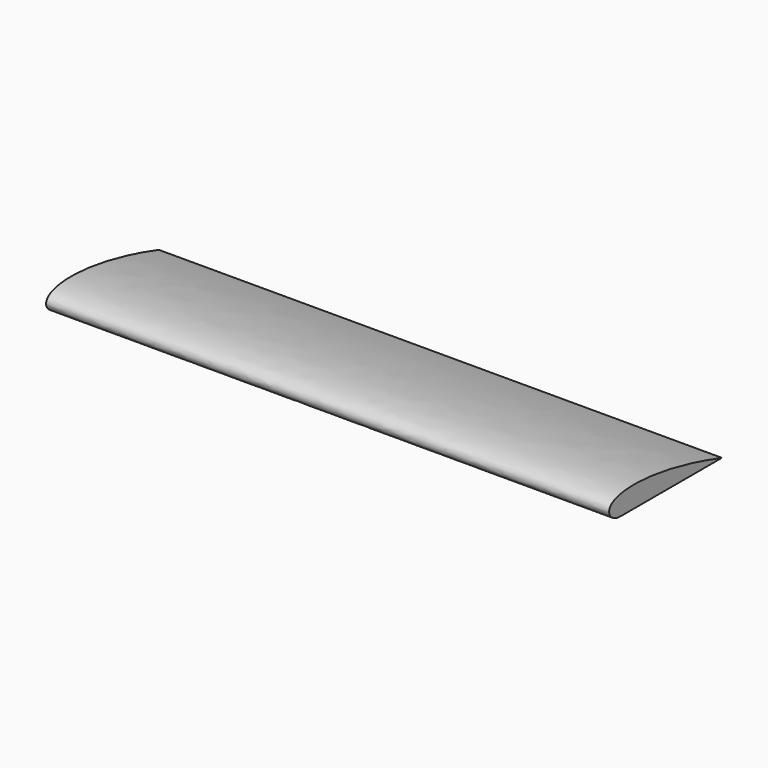
from build123d import *

# Parameters (mm, degrees)
F1_DEPTH = 1016


with BuildPart() as f1:
    # F0 (on Right) → F1 (new body)
    with BuildSketch(Plane.YZ):
        with BuildLine():
            add(Edge.make_bspline(
                [(25.8811783718, 0), (6.7787851927, 0), (-26.8420564531, 43.5744659283), (96.8624278903, 49.3138805032), (254, 0)],
                knots=[0, 0, 0, 0, 0.2645075636, 1, 1, 1, 1], degree=3))
            Line((25.8811783718, 0), (254, 0))
        make_face()
    extrude(amount=F1_DEPTH)


solid = f1.part
